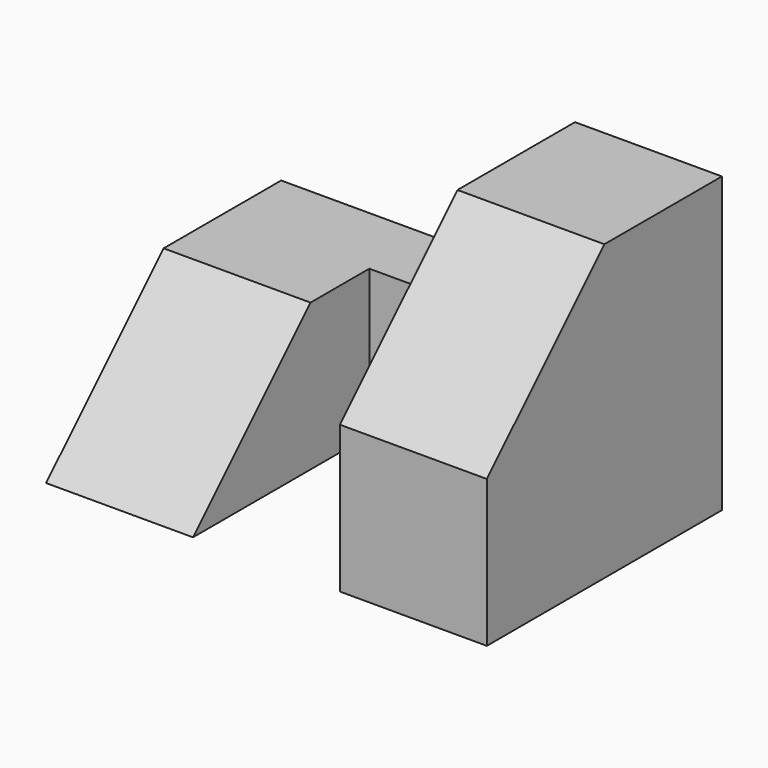
from build123d import *

# Parameters (mm, degrees)
F0_W     = 25.4
F0_H     = 25.4
F1_DEPTH = 12.7
F3_DEPTH = 12.7
F4_W     = 6.35
F4_H     = 12.7
F5_DEPTH = 25.4
F6_W     = 12.7
F6_H     = 12.7
F7_DEPTH = 19.05
F9_DEPTH = 12.7


with BuildPart() as f1:
    # F0 (on Right) → F1 (new body)
    with BuildSketch(Plane.YZ):
        with Locations((-12.7, 12.7)):
            Rectangle(F0_W, F0_H)
    extrude(amount=F1_DEPTH)

    # F2 (on Right) → F3 (cut)
    with BuildSketch(Plane.YZ):
        Polygon((-12.7, 25.4), (-25.4, 25.4), (-25.4, 12.7), align=None)
    extrude(amount=F3_DEPTH, mode=Mode.SUBTRACT)

    # F4 (on face) → F5 (join)
    with BuildSketch(Plane(origin=(0, 0, 0), x_dir=(0, -1, 0), z_dir=(-1, 0, 0))):
        with Locations((3.175, 6.35)):
            Rectangle(F4_W, F4_H)
    extrude(amount=F5_DEPTH)

    # F6 (on face) → F7 (join)
    with BuildSketch(Plane.XZ.offset(6.35)):
        with Locations((-19.05, 6.35)):
            Rectangle(F6_W, F6_H)
    extrude(amount=F7_DEPTH)

    # F8 (on face) → F9 (cut)
    with BuildSketch(Plane(origin=(-25.4, 0, 0), x_dir=(0, -1, 0), z_dir=(-1, 0, 0))):
        Polygon((25.4, 12.7), (12.7, 12.7), (25.4, 0), align=None)
    extrude(amount=-F9_DEPTH, mode=Mode.SUBTRACT)


solid = f1.part
